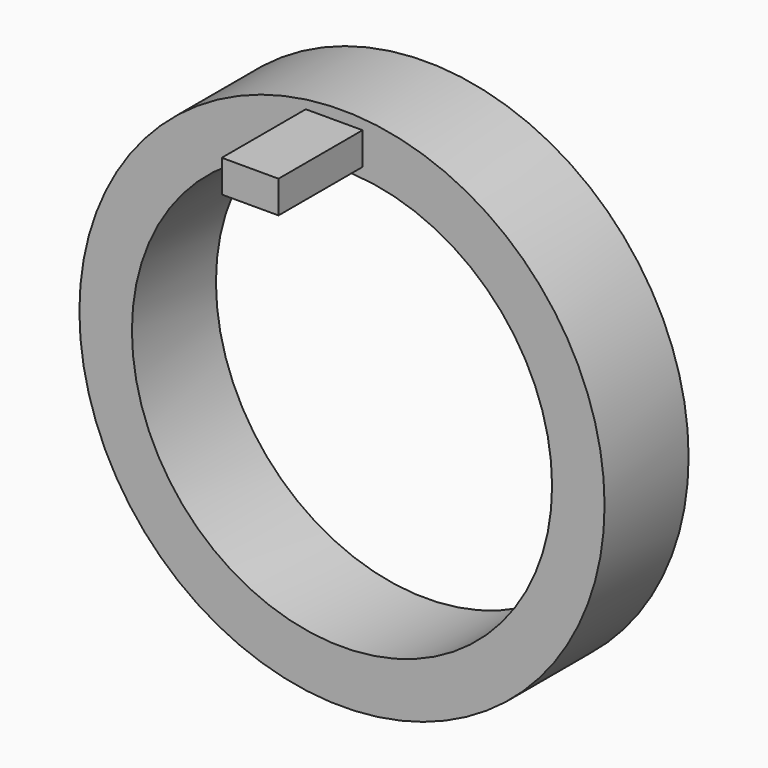
from build123d import *

# Parameters (mm, degrees)
F0_R     = 63.5
F0_W     = 13.716
F0_H     = 7.8232
F0_R_2   = 50.8
F1_DEPTH = 25.4
F2_DEPTH = 50.8


with BuildPart() as f1:
    # F0 (on Front) → F1 (new body)
    with BuildSketch(Plane.XZ):
        with Locations((1.888794, 0)):
            Circle(F0_R)
        with Locations((0, 56.896)):
            Rectangle(F0_W, F0_H, mode=Mode.SUBTRACT)
        with Locations((1.888794, 0)):
            Circle(F0_R_2, mode=Mode.SUBTRACT)
    extrude(amount=F1_DEPTH)

    # F0 (on Front) → F2 (join)
    with BuildSketch(Plane.XZ):
        with Locations((0, 56.896)):
            Rectangle(F0_W, F0_H)
    extrude(amount=F2_DEPTH)


solid = f1.part
